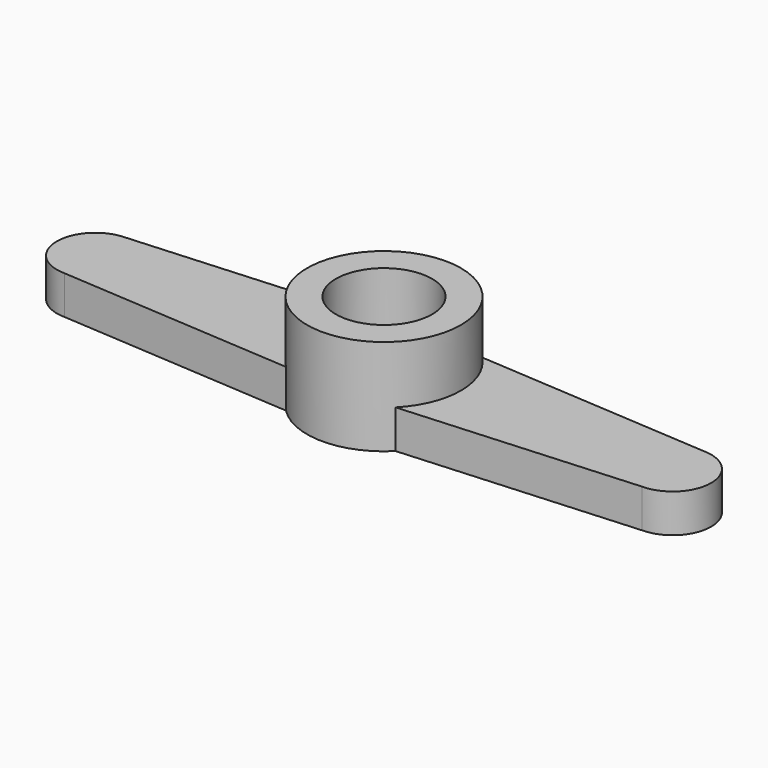
from build123d import *

# Parameters (mm, degrees)
CYLINDER001_R     = 2.5
CYLINDER001_DEPTH = 3
CYLINDER_R        = 4
CYLINDER_DEPTH    = 5
PAD_DEPTH         = 2


with BuildPart() as cylinder001:
    # Cylinder001 → Cylinder001 (new body)
    with BuildSketch(Plane.XY.offset(2)):
        Circle(CYLINDER001_R)
    extrude(amount=CYLINDER001_DEPTH)


with BuildPart() as cut:
    # Cylinder → Cylinder (new body)
    with BuildSketch(Plane.XY):
        Circle(CYLINDER_R)
    extrude(amount=CYLINDER_DEPTH)

    # Cut: cut Cylinder001
    add(cylinder001.part, mode=Mode.SUBTRACT)


with BuildPart() as servo_arm:
    # Sketch → Pad (new body)
    with BuildSketch(Plane.XY):
        with BuildLine():
            Line((-15, 2), (0, 3))
            Line((0, 3), (15, 2))
            ThreePointArc((15, -2), (17, 0), (15, 2))
            Line((15, -2), (0, -3))
            Line((0, -3), (-15, -2))
            ThreePointArc((-15, 2), (-17, 0), (-15, -2))
        make_face()
    extrude(amount=PAD_DEPTH)

    # Fusion: union Cut
    add(cut.part)


solid = servo_arm.part
